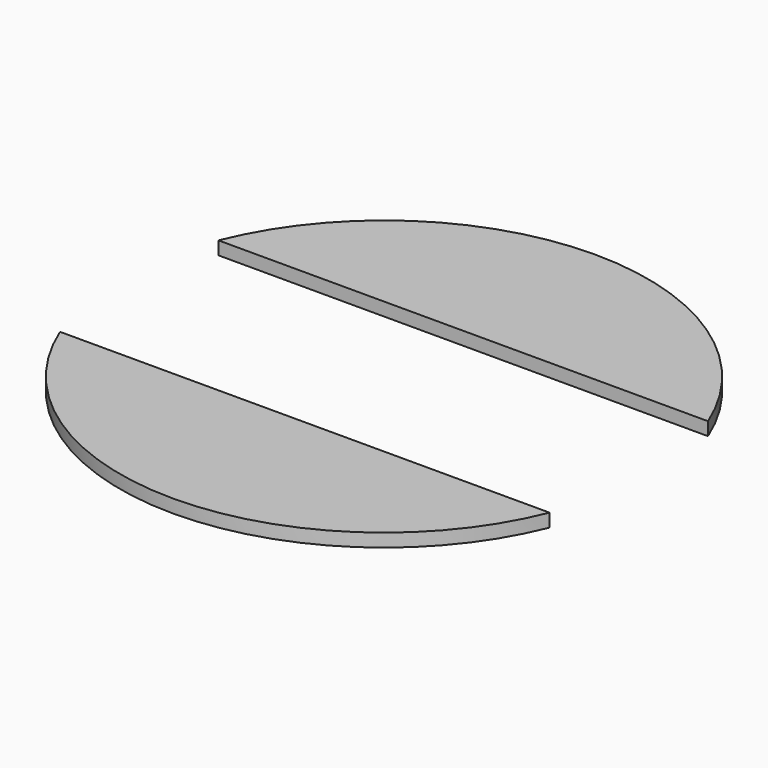
from build123d import *

# Parameters (mm, degrees)
CYLINDER_R     = 2
CYLINDER_DEPTH = 0.1
SKETCH_W       = 4.5
SKETCH_H       = 1.75
PAD_DEPTH      = 0.1


with BuildPart() as cylinder:
    # Cylinder → Cylinder (new body)
    with BuildSketch(Plane.XY):
        Circle(CYLINDER_R)
    extrude(amount=CYLINDER_DEPTH)


with BuildPart() as common:
    # Sketch → Pad (new body)
    with BuildSketch(Plane.XY):
        with Locations((0, 1.625)):
            Rectangle(SKETCH_W, SKETCH_H)
        with Locations((0, -1.625)):
            Rectangle(SKETCH_W, SKETCH_H)
    extrude(amount=PAD_DEPTH)

    # Common: intersect Cylinder
    add(cylinder.part, mode=Mode.INTERSECT)


solid = common.part
